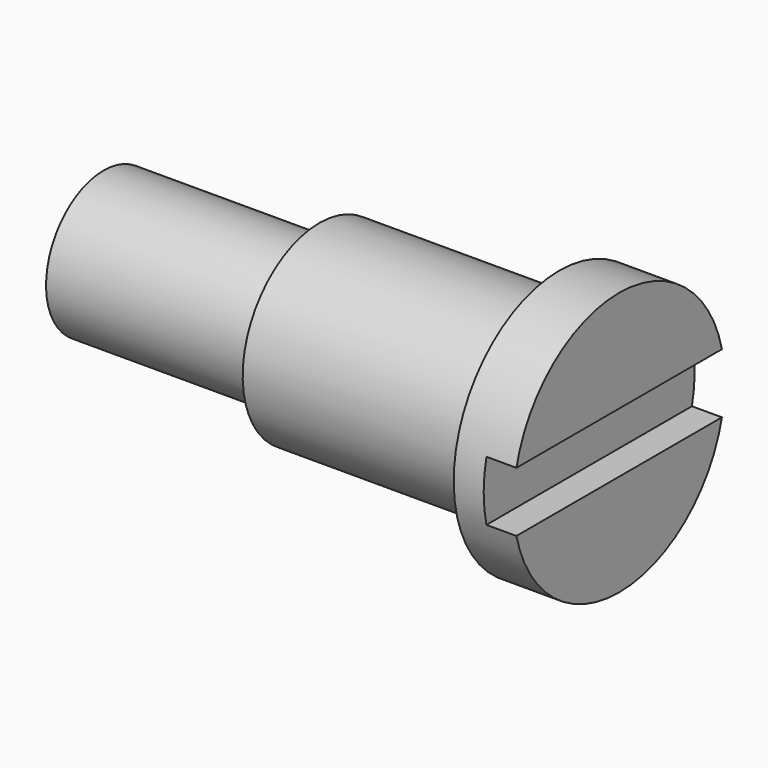
from build123d import *

# Parameters (mm, degrees)
F2_W     = 62.190262
F2_H     = 5
F3_DEPTH = 2.5


with BuildPart() as f1:
    # F0 (on Front) → F1 (revolve)
    with BuildSketch(Plane.XZ):
        Polygon((-38, 6), (-38, 0), (5, 0), (5, 11), (0, 11), (0, 8), (-20, 8), (-20, 6), align=None)
    revolve(axis=Axis((-10.440066, 0, 0), (1, 0, 0)))

    # F2 (on face) → F3 (cut)
    with BuildSketch(Plane.YZ.offset(5)):
        with Locations((-2.05223, 0)):
            Rectangle(F2_W, F2_H)
    extrude(amount=-F3_DEPTH, mode=Mode.SUBTRACT)


solid = f1.part
